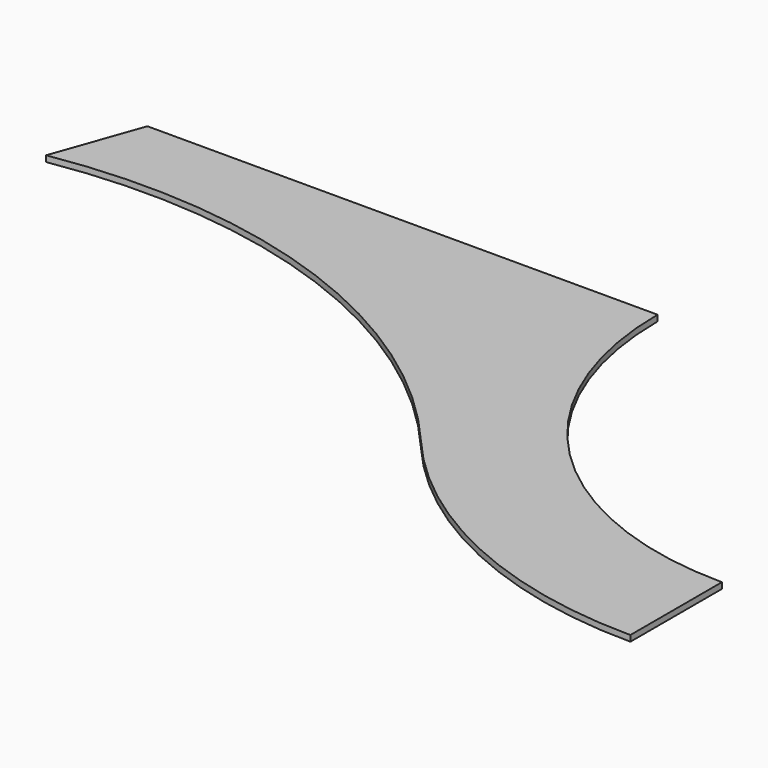
from build123d import *

# Parameters (mm, degrees)
F1_DEPTH = 15.875


with BuildPart() as f1:
    # F0 (on Top) → F1 (new body, symmetric)
    with BuildSketch(Plane.XY):
        with BuildLine():
            Line((504.866609, 30.245211), (-2212.933391, 30.245211))
            Line((-2212.933391, 30.245211), (-2263.837512, -113.402032))
            ThreePointArc((-2263.837512, -113.402032), (-646.767499, -324.902856), (678.682548, -1275.076631))
            ThreePointArc((678.682548, -1275.076631), (1370.327125, -1801.88591), (2219.366609, -1989.054789))
            Line((2219.366609, -1989.054789), (2219.366609, -1684.254789))
            ThreePointArc((2219.366609, -1684.254789), (1007.032033, -1182.089365), (504.866609, 30.245211))
        make_face()
        with BuildLine():
            ThreePointArc((678.682548, -1275.076631), (-646.767499, -324.902856), (-2263.837512, -113.402032))
            Line((-2263.837512, -113.402032), (-2378.661958, -437.42717))
            ThreePointArc((-2378.661958, -437.42717), (-829.530014, -581.457642), (446.126463, -1472.106344))
            ThreePointArc((446.126463, -1472.106344), (1242.170221, -2078.434003), (2219.366609, -2293.854789))
            Line((2219.366609, -2293.854789), (2219.366609, -1989.054789))
            ThreePointArc((2219.366609, -1989.054789), (1370.327125, -1801.88591), (678.682548, -1275.076631))
        make_face()
    extrude(amount=F1_DEPTH, both=True)


solid = f1.part
